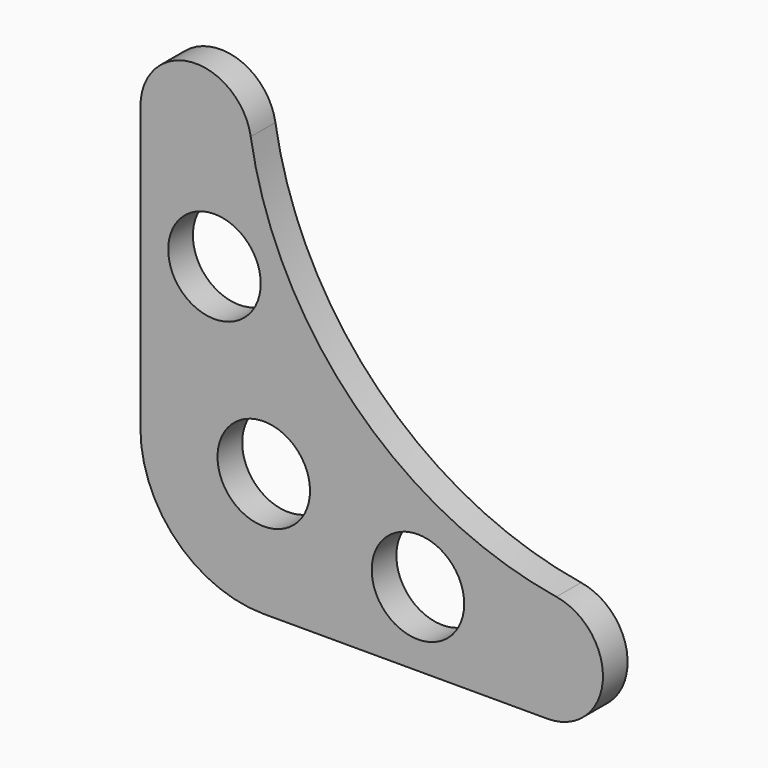
from build123d import *

# Parameters (mm, degrees)
F0_R     = 4.7625
F1_DEPTH = 3.175


with BuildPart() as f1:
    # F0 (on Front) → F1 (new body)
    with BuildSketch(Plane.XZ):
        with BuildLine():
            ThreePointArc((42.829464, 11.355551), (22.018453, 22.018453), (11.355551, 42.829464))
            ThreePointArc((11.355551, 42.829464), (5.253764, 47.606357), (0, 41.91))
            Line((0, 41.91), (0, 12.7))
            ThreePointArc((0, 12.7), (3.719744, 3.719744), (12.7, 0))
            Line((12.7, 0), (41.91, 0))
            ThreePointArc((41.91, 0), (47.606357, 5.253764), (42.829464, 11.355551))
        make_face()
        with Locations((12.7, 12.7)):
            Circle(F0_R, mode=Mode.SUBTRACT)
        with Locations((28.575, 7.62)):
            Circle(F0_R, mode=Mode.SUBTRACT)
        with Locations((7.62, 29.845)):
            Circle(F0_R, mode=Mode.SUBTRACT)
    extrude(amount=F1_DEPTH)


solid = f1.part
